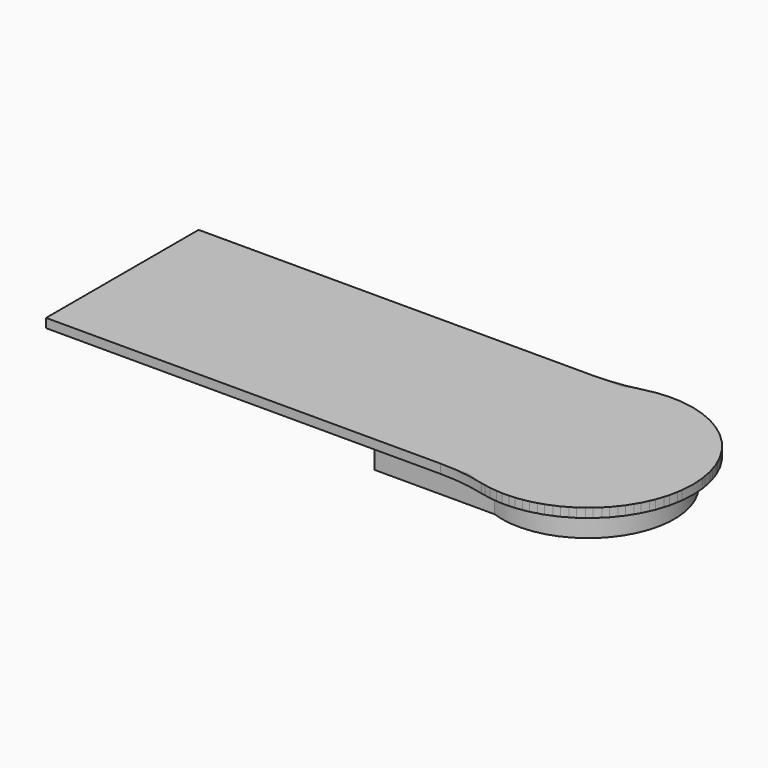
from build123d import *

# Parameters (mm, degrees)
PAD_DEPTH    = 1
PAD001_DEPTH = 1
FILLET_R     = 20
FILLET001_R  = 20
FILLET002_R  = 1
FILLET003_R  = 1
PAD002_DEPTH = 3


with BuildPart() as pad:
    # Sketch003 → Pad (new body)
    with BuildSketch(Plane.XY.offset(69)):
        with BuildLine():
            Line((0.013913, 21), (46.663841, 21))
            ThreePointArc((46.663841, 0), (62.854257, 10.5), (46.663841, 21))
            Line((46.663841, 0), (0.013913, 0))
            Line((0.013913, 0), (0.013913, 21))
        make_face()
    extrude(amount=PAD_DEPTH)


with BuildPart() as fillet003:
    # Pad001 base: copy of Pad
    add(pad.part)

    # Sketch → Pad001 (new body)
    with BuildSketch(Plane(origin=(0, 0, 69), x_dir=(1, 0, 0), z_dir=(0, 0, -1))):
        with BuildLine():
            Line((1.511721, -19.526379), (48.404155, -19.526379))
            ThreePointArc((48.404155, -19.526379), (60.840174, -10.38315), (48.198543, -1.526379))
            Line((1.511721, -1.526379), (48.198543, -1.526379))
            Line((1.511721, -1.526379), (1.511721, -19.526379))
        make_face()
    extrude(amount=PAD001_DEPTH)

    # Fillet
    fillet_edges = [fillet003.edges().sort_by_distance(p)[0] for p in [
        (46.663841, 21, 69.5),
    ]]
    fillet(fillet_edges, radius=FILLET_R)

    # Fillet001
    fillet001_edges = [fillet003.edges().sort_by_distance(p)[0] for p in [
        (46.663841, 0, 69.5),
    ]]
    fillet(fillet001_edges, radius=FILLET001_R)

    # Fillet002
    fillet002_edges = [fillet003.edges().sort_by_distance(p)[0] for p in [
        (0.013913, 0, 69.5),
    ]]
    fillet(fillet002_edges, radius=FILLET002_R)

    # Fillet003
    fillet003_edges = [fillet003.edges().sort_by_distance(p)[0] for p in [
        (0.013913, 21, 69.5),
    ]]
    fillet(fillet003_edges, radius=FILLET003_R)


with BuildPart() as pad002:
    # Pad002 base: copy of Pad
    add(pad.part)

    # Sketch004 → Pad002 (new body)
    with BuildSketch(Plane(origin=(0, 0, 69), x_dir=(1, 0, 0), z_dir=(0, 0, -1))):
        with BuildLine():
            Line((34.987533, -19.53733), (48.409999, -19.53733))
            ThreePointArc((48.409999, -19.53733), (60.829409, -10.372148), (48.172858, -1.53733))
            Line((34.987533, -1.53733), (48.172858, -1.53733))
            Line((34.987533, -1.53733), (34.987533, -19.53733))
        make_face()
    extrude(amount=PAD002_DEPTH)


solid = Compound([fillet003.part, pad002.part])
